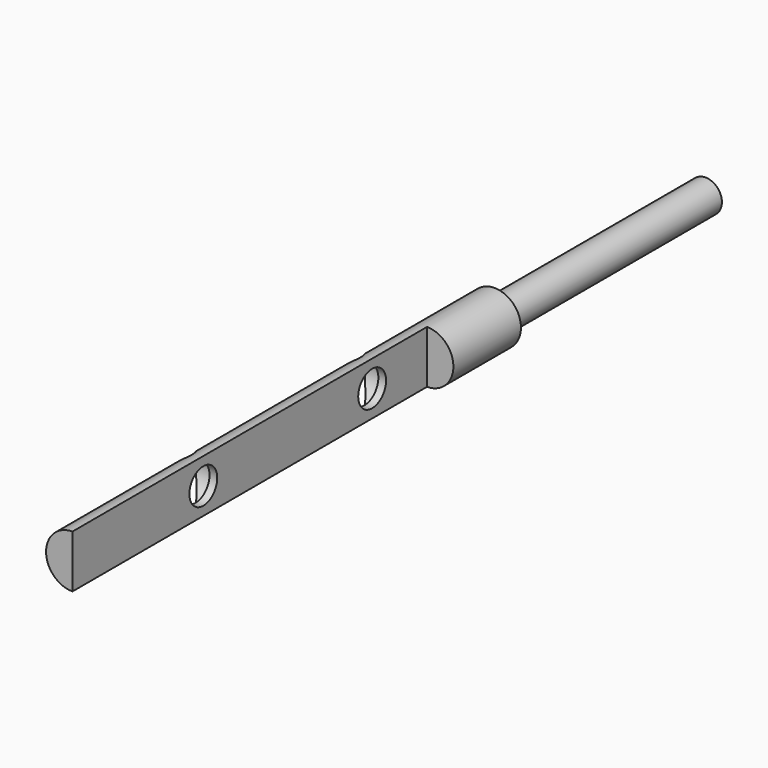
from build123d import *

# Parameters (mm, degrees)
F0_R      = 2.5
F1_DEPTH  = 50
F2_R      = 1.55
F3_DEPTH  = 25
F5_DEPTH  = 42
F7_D      = 3.3
F10_D     = 4.5
F10_DEPTH = 1.4
F10_TIP   = 1.3519363928


with BuildPart() as f1:
    # F0 (on Front) → F1 (new body)
    with BuildSketch(Plane.XZ):
        Circle(F0_R)
    extrude(amount=F1_DEPTH)

    # F2 (on face) → F3 (join)
    with BuildSketch(Plane(origin=(0, 0, 0), x_dir=(-1, 0, 0), z_dir=(0, 1, 0))):
        Circle(F2_R)
    extrude(amount=F3_DEPTH)

    # F4 (on face) → F5 (cut)
    with BuildSketch(Plane.XZ.offset(50)):
        with BuildLine():
            ThreePointArc((2.5, 0), (1.767766953, 1.767766953), (0, 2.5))
            Line((0, 2.5), (0, -2.5))
            ThreePointArc((0, -2.5), (1.767766953, -1.767766953), (2.5, 0))
        make_face()
    extrude(amount=-F5_DEPTH, mode=Mode.SUBTRACT)

    # F7 (through all)
    with Locations(Plane.YZ):
        with Locations((-34.5, 0), (-14.5, 0)):
            Hole(F7_D / 2)

    # F10
    with Locations(Plane(origin=(-2.5, 0, 0), x_dir=(0, 1, 0), z_dir=(-1, 0, 0))):
        with Locations((-34.4858653843, 0), (-14.4858653843, 0)):
            Hole(F10_D / 2, depth=F10_DEPTH)
            with Locations((0, 0, -(F10_DEPTH + F10_TIP / 2))):  # 118° drill point
                Cone(0, F10_D / 2, F10_TIP, mode=Mode.SUBTRACT)


solid = f1.part
